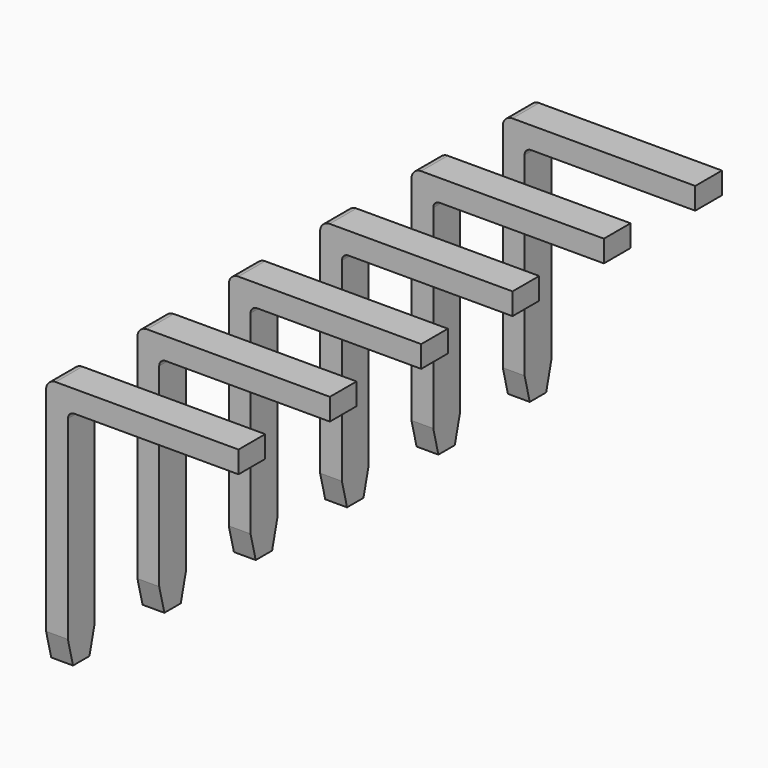
from build123d import *

# Parameters (mm, degrees)
BOX003_W                   = 0.34
BOX003_H                   = 0.52
BOX003_DEPTH               = 3.87
BOX004_W                   = 3
BOX004_H                   = 0.52
BOX004_DEPTH               = 0.34
FILLET005_R                = 0.15
FILLET006_R                = 0.1
CHAMFER014_SIZE2           = 0.4
CHAMFER014_SIZE            = 0.1
CHAMFER015_SIZE2           = 0.4
CHAMFER015_SIZE            = 0.1
CHAMFER015_PLACEMENT_ANGLE = 180
ARRAY001_Y_COUNT           = 6
ARRAY001_Y_PITCH           = 1.78


with BuildPart() as kub003:
    # Box003 → Box003 (new body)
    with BuildSketch(Plane(origin=(-0.17, -0.26, -3), x_dir=(1, 0, 0), z_dir=(0, 0, 1))):
        with Locations((0.17, 0.26)):
            Rectangle(BOX003_W, BOX003_H)
    extrude(amount=BOX003_DEPTH)


with BuildPart() as array001:
    # Box004 → Box004 (new body)
    with BuildSketch(Plane(origin=(-2.83, -0.26, 0.53), x_dir=(1, 0, 0), z_dir=(0, 0, 1))):
        with Locations((1.5, 0.26)):
            Rectangle(BOX004_W, BOX004_H)
    extrude(amount=BOX004_DEPTH)

    # Fusion001: union Kub003
    add(kub003.part)

    # Fillet005
    fillet005_edges = [array001.edges().sort_by_distance(p)[0] for p in [
        (0.17, 0, 0.87),
    ]]
    fillet(fillet005_edges, radius=FILLET005_R)

    # Fillet006
    fillet006_edges = [array001.edges().sort_by_distance(p)[0] for p in [
        (-0.17, 0, 0.53),
    ]]
    fillet(fillet006_edges, radius=FILLET006_R)

    # Chamfer014
    chamfer014_edges = [array001.edges().sort_by_distance(p)[0] for p in [
        (0, 0.26, -3),
    ]]
    chamfer014_side = array001.faces().sort_by_distance((0, 0, -3))[0]
    chamfer(chamfer014_edges, length=CHAMFER014_SIZE, length2=CHAMFER014_SIZE2, reference=chamfer014_side)

    # Chamfer015
    chamfer015_edges = [array001.edges().sort_by_distance(p)[0] for p in [
        (0, -0.26, -3),
    ]]
    chamfer015_side = array001.faces().sort_by_distance((0, -0.05, -3))[0]
    chamfer(chamfer015_edges, length=CHAMFER015_SIZE, length2=CHAMFER015_SIZE2, reference=chamfer015_side)


with BuildPart() as array001_1:
    # Chamfer015 placement: moved
    add(array001.part.moved(Location((-10.16, 0, 0))).rotate(Axis((-10.16, 0, 0), (0, 0, 1)), CHAMFER015_PLACEMENT_ANGLE))

    # Array001 Y: Array001 ×6


with BuildPart() as array001_2:
    add(array001_1.part)
    with Locations(*[(0, -i * ARRAY001_Y_PITCH, 0) for i in range(1, ARRAY001_Y_COUNT)]):
        add(array001_1.part)


solid = array001_2.part
